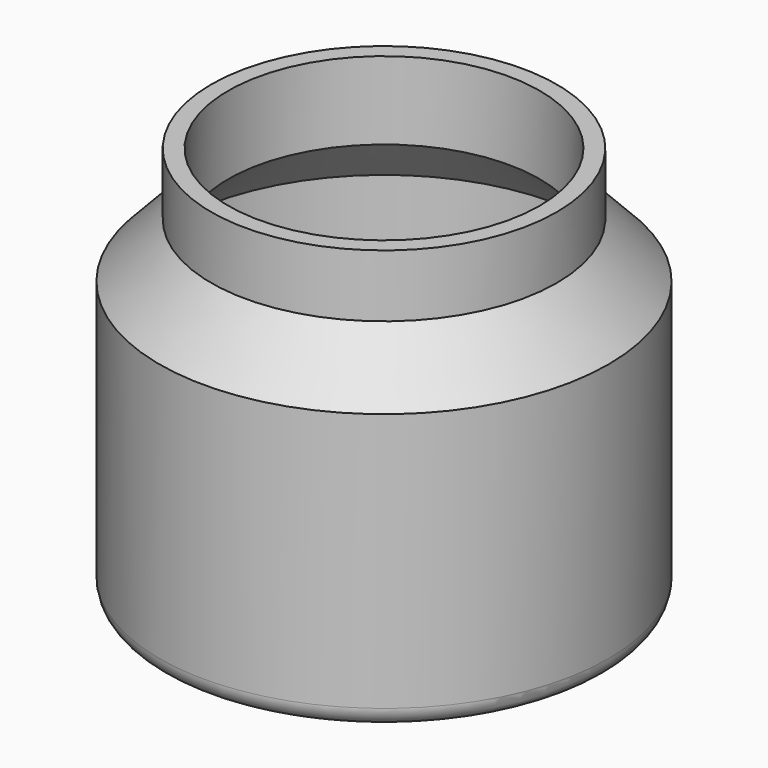
from build123d import *


with BuildPart() as f1:
    # F0 (on Front) → F1 (revolve)
    with BuildSketch(Plane.XZ):
        with BuildLine():
            Line((0, 7.565121), (0, 0))
            Line((0, 0), (39.313756, 0))
            Line((39.313756, 0), (51.177312, -21.120233))
            Line((51.177312, -21.120233), (66.577177, -21.120233))
            ThreePointArc((66.577177, -21.120233), (71.067305, -19.260362), (72.927177, -14.770233))
            Line((72.927177, -14.770233), (72.927177, 69.339424))
            Line((72.927177, 69.339424), (56.120466, 87.134771))
            Line((56.120466, 87.134771), (56.120466, 107.401684))
            Line((56.120466, 107.401684), (50.587501, 107.401684))
            Line((50.587501, 107.401684), (50.587501, 82.146585))
            Line((50.587501, 82.146585), (68.7396, 63.994482))
            Line((68.7396, 63.994482), (68.7396, -9.366923))
            ThreePointArc((68.7396, -9.366923), (66.879729, -13.857051), (62.3896, -15.716923))
            Line((62.3896, -15.716923), (56.120466, -15.716923))
            Line((56.120466, -15.716923), (43.484502, 7.565121))
            Line((43.484502, 7.565121), (0, 7.565121))
        make_face()
    revolve(axis=Axis((0, 0, 35.899226), (0, 0, 1)))


solid = f1.part
